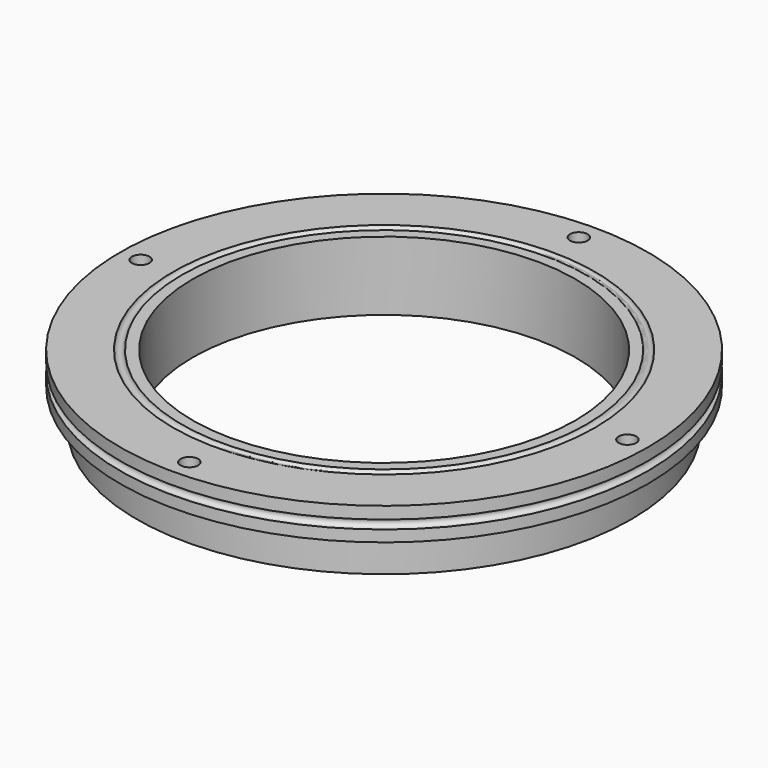
from build123d import *

# Parameters (mm, degrees)
F2_R     = 4
F3_DEPTH = 14.638165


with BuildPart() as f1:
    # F0 (on Front) → F1 (revolve)
    with BuildSketch(Plane.XZ):
        with BuildLine():
            Line((87, 0), (112.414959, 0))
            Line((112.414959, 0), (112.414959, 16.690632))
            Line((112.414959, 16.690632), (120, 16.690632))
            Line((120, 16.690632), (120, 21.859715))
            ThreePointArc((120, 21.859715), (117.763292, 23.845658), (120, 25.831601))
            Line((120, 25.831601), (120, 31.328797))
            Line((120, 31.328797), (95.922604, 31.328797))
            ThreePointArc((95.922604, 31.328797), (93.961302, 29.720326), (92, 31.328797))
            Line((92, 31.328797), (87, 31.328797))
            Line((87, 31.328797), (87, 0))
        make_face()
    revolve(axis=Axis((0, 0, 0.660039), (0, 0, 1)))

    # F2 (on face) → F3 (cut, through all)
    with BuildSketch(Plane.XY.offset(31.328797)):
        with Locations((110.639705, 0)):
            Circle(F2_R)
        with Locations((-110.639705, 0)):
            Circle(F2_R)
        with Locations((0, 110.639705)):
            Circle(F2_R)
        with Locations((0, -110.639705)):
            Circle(F2_R)
    extrude(amount=-F3_DEPTH, mode=Mode.SUBTRACT)


solid = f1.part
